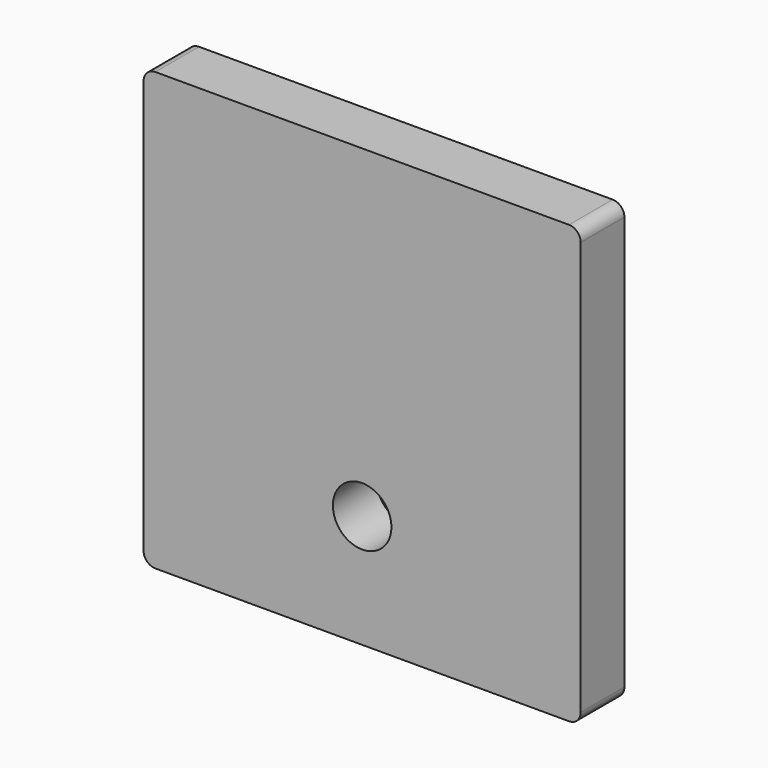
from build123d import *

# Parameters (mm, degrees)
F1_DEPTH = 7
F2_R     = 3.75
F3_DEPTH = 7
F4_T     = -3


with BuildPart() as f1:
    # F0 (on Front) → F1 (new body)
    with BuildSketch(Plane.XZ):
        with BuildLine():
            ThreePointArc((28, 26.5), (27.56066, 27.56066), (26.5, 28))
            Line((26.5, 28), (-26.5, 28))
            ThreePointArc((-26.5, 28), (-27.56066, 27.56066), (-28, 26.5))
            Line((-28, 26.5), (-28, -26.5))
            ThreePointArc((-28, -26.5), (-27.56066, -27.56066), (-26.5, -28))
            Line((-26.5, -28), (26.5, -28))
            ThreePointArc((26.5, -28), (27.56066, -27.56066), (28, -26.5))
            Line((28, -26.5), (28, 26.5))
        make_face()
    extrude(amount=F1_DEPTH)

    # F2 (on face) → F3 (cut)
    with BuildSketch(Plane.XZ.offset(7)):
        with Locations((0, -13.5)):
            Circle(F2_R)
    extrude(amount=-F3_DEPTH, mode=Mode.SUBTRACT)

    # F4
    f4_openings = [f1.faces().sort_by_distance(p)[0] for p in [
        (0, 0, 0.19302),
    ]]
    offset(amount=F4_T, openings=f4_openings)


solid = f1.part
